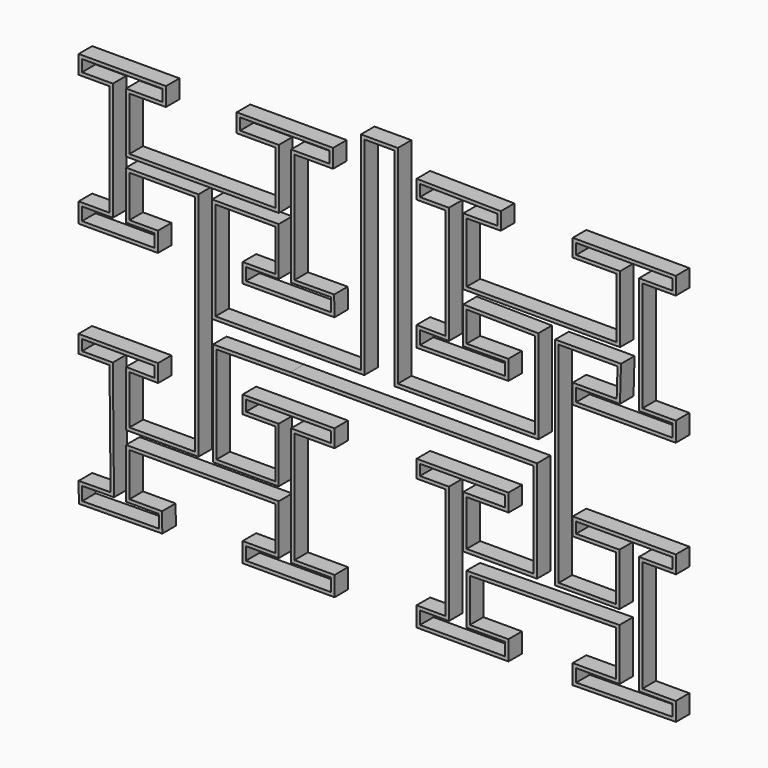
from build123d import *

# Parameters (mm, degrees)
F1_DEPTH = 5
F2_T     = -1
F3_DEPTH = 25


with BuildPart() as f1:
    # F0 (on Front) → F1 (new body)
    with BuildSketch(Plane.XZ):
        Polygon((8.0072915643, 52.141069883), (-2.8801037779, 52.141069883), (-2.8801037779, -9.1040549869), (-45.8210122276, -9.1040549869), (-45.8210122276, 19.9523665977), (-28.1605719301, 19.9191821674), (-28.1605719301, 7.6380371082), (-37.8054308692, 7.6380371082), (-37.8054308692, 2.0000563281), (-10.7067706128, 2.0455099011), (-10.7749820767, 7.9672304788), (-22.5120559335, 7.8943327605), (-22.5120559335, 40.5132359515), (-11.0918553546, 40.5132359515), (-11.0918553546, 45.9502711892), (-39.5533293486, 45.9502711892), (-39.5533293486, 40.5132359515), (-28.1239244143, 40.5132359515), (-28.1239244143, 24.8240148166), (-71.2110102177, 24.8240148166), (-71.2110102177, 40.5132359515), (-60.4363009334, 40.5132359515), (-60.4363009334, 45.9502711892), (-86.2032026052, 45.9502711892), (-86.2032026052, 40.5132359515), (-77.1090015769, 40.5132359515), (-77.1090015769, 7.6380371082), (-86.2032026052, 7.6380371082), (-86.2032026052, 1.8288174178), (-62.794059515, 1.8288174178), (-62.794059515, 7.6380371082), (-71.2110102177, 7.6380371082), (-71.2110102177, 19.9523665977), (-51.8337972462, 19.9523665977), (-51.8337972462, -46.2308074175), (-71.1853829735, -46.2308074175), (-71.2110102177, -31.851682812), (-62.7422249312, -31.9626871497), (-62.794059515, -26.8007230816), (-86.255037189, -26.8007230816), (-86.2032026052, -31.9626871497), (-77.0988553628, -31.9626871497), (-76.7682939783, -64.8817513138), (-86.2032026052, -64.9764932677), (-86.1434923871, -70.9227549702), (-61.5095901099, -70.675390197), (-61.5677677446, -64.8817513138), (-71.1895658718, -64.8817513138), (-71.2110102177, -52.0969908684), (-28.1605719301, -52.0969908684), (-28.1605719301, -64.8817513138), (-37.8054308692, -64.8817513138), (-37.8054308692, -70.675390197), (-10.6667575392, -70.675390197), (-10.6667575392, -64.8817513138), (-22.5120559335, -64.8817513138), (-22.5120559335, -31.9532126873), (-10.6667575392, -31.9626871497), (-10.7067706128, -26.8007230816), (-37.8054308692, -26.8007230816), (-37.8054308692, -31.9626871497), (-28.1605719301, -31.9626871497), (-28.1605719301, -46.2308074175), (-45.5299697717, -46.2308074175), (-45.5299697717, -17.6096292971), (-23.6895601334, -17.4403329001), (48.0964920962, -17.4403329001), (48.0964920962, -45.4286533787), (28.3165536821, -45.4286533787), (28.3165536821, -31.9626871497), (40.7277253438, -31.9626871497), (40.662907064, -26.8007230816), (13.5501036421, -26.8007230816), (13.5501036421, -31.9626871497), (22.0853425562, -31.9626871497), (22.0853425562, -64.8817513138), (13.5501036421, -64.8817513138), (13.5501036421, -70.675390197), (40.662907064, -70.675390197), (40.662907064, -64.8817513138), (29.2557682842, -64.8817513138), (29.2557682842, -52.0969908684), (72.4363327026, -51.5547767281), (72.4363327026, -64.8817513138), (59.6378114064, -64.9032187412), (59.6378114064, -70.675390197), (90.1170401453, -70.2926654913), (90.0490958231, -64.8817513138), (80.187164247, -64.8817513138), (80.187164247, -31.9626871497), (90.113914103, -31.9626871497), (90.0490958231, -26.8007230816), (59.6378114064, -26.8007230816), (59.6378114064, -31.9841545771), (72.4363327026, -31.9626871497), (72.4363327026, -45.4286533787), (55.4747466511, -45.4286533787), (55.4747466511, 16.4868287052), (72.8601742497, 16.4868287052), (72.6086720824, 7.9672304788), (59.6378114064, 7.9672304788), (59.6378114064, 2.2139046414), (90.0490958231, 2.2139046414), (90.0490958231, 7.9672304788), (80.187164247, 7.9672304788), (80.187164247, 40.4506267922), (90.0490958231, 40.4506267922), (90.0490958231, 45.596408951), (59.6378114064, 45.596408951), (59.6378114064, 40.4506267922), (72.6086720824, 40.4506267922), (72.6086720824, 22.7035296874), (28.3165536821, 22.7035296874), (28.3165536821, 40.4506267922), (38.3970931575, 40.5132359515), (38.3970931575, 45.596408951), (13.5501036421, 45.9502711892), (13.5501036421, 40.5132359515), (22.0853425562, 40.5132359515), (22.0853425562, 38.2037572563), (22.0853425562, 7.892867148), (13.5501036421, 7.9672304788), (13.5501036421, 2.0455099011), (40.662907064, 2.2139046414), (40.6271737687, 7.9672304788), (28.3165536821, 7.8907705259), (28.3165536821, 16.7739558245), (48.477632633, 16.4868287052), (48.477632633, -9.1040549869), (8.0072915643, -9.1040549869), align=None)
    extrude(amount=F1_DEPTH)

    # F2
    f2_openings = [f1.faces().sort_by_distance(p)[0] for p in [
        (4.320922, -5, -10.326702),
    ]]
    offset(amount=F2_T, openings=f2_openings, kind=Kind.INTERSECTION)

    # F3 (cut): a face of the model
    f3_faces = [f1.faces().sort_by_distance(p)[0] for p in [
        (5.4348829679, -1, -10.1859682125),
    ]]
    extrude(f3_faces, amount=-F3_DEPTH, mode=Mode.SUBTRACT)


solid = f1.part
